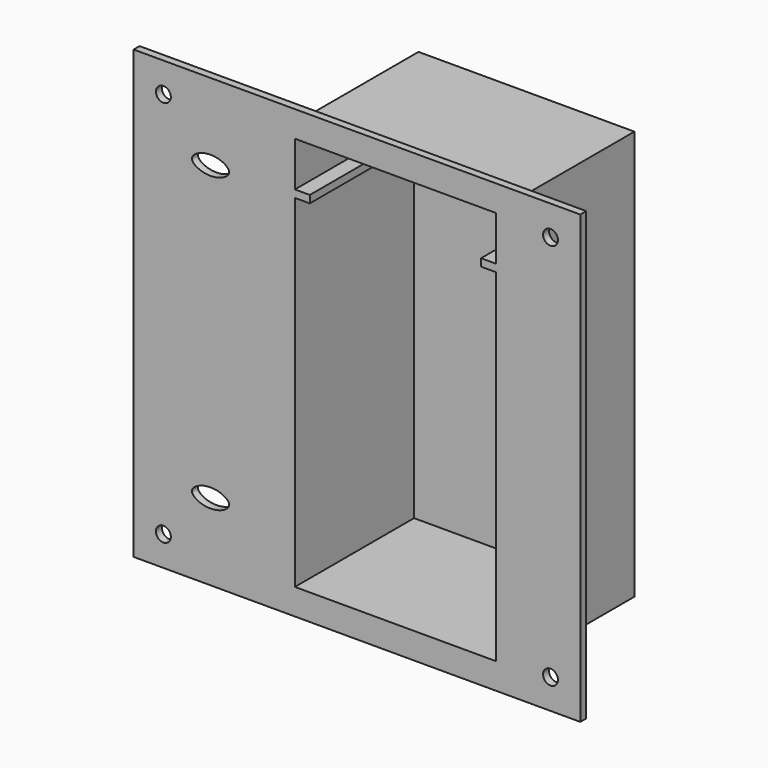
from build123d import *

# Parameters (mm, degrees)
F0_W     = 60
F0_H     = 60
F0_R     = 1
F0_W_2   = 29
F0_H_2   = 55
F1_DEPTH = 1
F2_DEPTH = 20
F3_W     = 29
F3_H     = 55
F4_DEPTH = 2
F5_R     = 1.25
F6_DEPTH = 1


with BuildPart() as f1:
    # F0 (on Front) → F1 (new body)
    with BuildSketch(Plane.XZ):
        with Locations((45, -47.5)):
            Rectangle(F0_W, F0_H)
        with Locations((19, -73.5)):
            Circle(F0_R, mode=Mode.SUBTRACT)
        with BuildLine():
            add(Edge.make_bspline(
                [(28.3333333333, -67.1666666667), (28.3386910441, -67.1122126941), (28.3379488497, -66.9506494032), (28.2562853666, -66.6493198021), (28.002751809, -66.341706647), (27.672972526, -66.0654054786), (27.2898969931, -65.8388871979), (26.8077967498, -65.6378105429), (26.2767972884, -65.4717289024), (25.7573018765, -65.4109314105), (25.4558981893, -65.4106282423), (25.3333333333, -65.4166666667)],
                knots=[0, 0, 0, 0, 0.1634113073, 0.4836883399, 0.9124679887, 1.3341141703, 1.7731849289, 2.2406235312, 2.899707559, 3.4345550853, 3.8026975859, 3.8026975859, 3.8026975859, 3.8026975859], degree=3))
            add(Edge.make_bspline(
                [(28.3333333333, -67.1666666667), (28.3386910441, -67.2211206392), (28.3379488497, -67.3826839302), (28.2562853666, -67.6840135313), (28.002751809, -67.9916266863), (27.672972526, -68.2679278548), (27.2898969931, -68.4944461355), (26.8077967498, -68.6955227904), (26.2767972884, -68.861604431), (25.7573018765, -68.9224019229), (25.4558981893, -68.922705091), (25.3333333333, -68.9166666667)],
                knots=[0, 0, 0, 0, 0.1634113073, 0.4836883399, 0.9124679887, 1.3341141703, 1.7731849289, 2.2406235312, 2.899707559, 3.4345550853, 3.8026975859, 3.8026975859, 3.8026975859, 3.8026975859], degree=3))
            add(Edge.make_bspline(
                [(22.3333333333, -67.1666666667), (22.3279756226, -67.2211206392), (22.328717817, -67.3826839302), (22.4103813, -67.6840135313), (22.6639148576, -67.9916266863), (22.9936941407, -68.2679278548), (23.3767696736, -68.4944461355), (23.8588699169, -68.6955227904), (24.3898693782, -68.861604431), (24.9093647902, -68.9224019229), (25.2107684774, -68.922705091), (25.3333333333, -68.9166666667)],
                knots=[0, 0, 0, 0, 0.1634113073, 0.4836883399, 0.9124679887, 1.3341141703, 1.7731849289, 2.2406235312, 2.899707559, 3.4345550853, 3.8026975859, 3.8026975859, 3.8026975859, 3.8026975859], degree=3))
            add(Edge.make_bspline(
                [(22.3333333333, -67.1666666667), (22.3279756226, -67.1122126941), (22.328717817, -66.9506494032), (22.4103813, -66.6493198021), (22.6639148576, -66.341706647), (22.9936941407, -66.0654054786), (23.3767696736, -65.8388871979), (23.8588699169, -65.6378105429), (24.3898693782, -65.4717289024), (24.9093647902, -65.4109314105), (25.2107684774, -65.4106282423), (25.3333333333, -65.4166666667)],
                knots=[0, 0, 0, 0, 0.1634113073, 0.4836883399, 0.9124679887, 1.3341141703, 1.7731849289, 2.2406235312, 2.899707559, 3.4345550853, 3.8026975859, 3.8026975859, 3.8026975859, 3.8026975859], degree=3))
        make_face(mode=Mode.SUBTRACT)
        with Locations((71, -73.5)):
            Circle(F0_R, mode=Mode.SUBTRACT)
        with Locations((50.1666666667, -47.5)):
            Rectangle(F0_W_2, F0_H_2, mode=Mode.SUBTRACT)
        with BuildLine():
            add(Edge.make_bspline(
                [(28.3333333333, -27.8333333333), (28.3386910441, -27.7788793608), (28.3379488497, -27.6173160698), (28.2562853666, -27.3159864687), (28.002751809, -27.0083733137), (27.672972526, -26.7320721453), (27.2898969931, -26.5055538646), (26.8077967498, -26.3044772096), (26.2767972884, -26.138395569), (25.7573018765, -26.0775980772), (25.4558981893, -26.077294909), (25.3333333333, -26.0833333333)],
                knots=[0, 0, 0, 0, 0.1634113073, 0.4836883399, 0.9124679887, 1.3341141703, 1.7731849289, 2.2406235312, 2.899707559, 3.4345550853, 3.8026975859, 3.8026975859, 3.8026975859, 3.8026975859], degree=3))
            add(Edge.make_bspline(
                [(28.3333333333, -27.8333333333), (28.3386910441, -27.8877873059), (28.3379488497, -28.0493505969), (28.2562853666, -28.350680198), (28.002751809, -28.658293353), (27.672972526, -28.9345945214), (27.2898969931, -29.1611128021), (26.8077967498, -29.3621894571), (26.2767972884, -29.5282710976), (25.7573018765, -29.5890685895), (25.4558981893, -29.5893717577), (25.3333333333, -29.5833333333)],
                knots=[0, 0, 0, 0, 0.1634113073, 0.4836883399, 0.9124679887, 1.3341141703, 1.7731849289, 2.2406235312, 2.899707559, 3.4345550853, 3.8026975859, 3.8026975859, 3.8026975859, 3.8026975859], degree=3))
            add(Edge.make_bspline(
                [(22.3333333333, -27.8333333333), (22.3279756226, -27.8877873059), (22.328717817, -28.0493505969), (22.4103813, -28.350680198), (22.6639148576, -28.658293353), (22.9936941407, -28.9345945214), (23.3767696736, -29.1611128021), (23.8588699169, -29.3621894571), (24.3898693782, -29.5282710976), (24.9093647902, -29.5890685895), (25.2107684774, -29.5893717577), (25.3333333333, -29.5833333333)],
                knots=[0, 0, 0, 0, 0.1634113073, 0.4836883399, 0.9124679887, 1.3341141703, 1.7731849289, 2.2406235312, 2.899707559, 3.4345550853, 3.8026975859, 3.8026975859, 3.8026975859, 3.8026975859], degree=3))
            add(Edge.make_bspline(
                [(22.3333333333, -27.8333333333), (22.3279756226, -27.7788793608), (22.328717817, -27.6173160698), (22.4103813, -27.3159864687), (22.6639148576, -27.0083733137), (22.9936941407, -26.7320721453), (23.3767696736, -26.5055538646), (23.8588699169, -26.3044772096), (24.3898693782, -26.138395569), (24.9093647902, -26.0775980772), (25.2107684774, -26.077294909), (25.3333333333, -26.0833333333)],
                knots=[0, 0, 0, 0, 0.1634113073, 0.4836883399, 0.9124679887, 1.3341141703, 1.7731849289, 2.2406235312, 2.899707559, 3.4345550853, 3.8026975859, 3.8026975859, 3.8026975859, 3.8026975859], degree=3))
        make_face(mode=Mode.SUBTRACT)
        with Locations((19, -21.5)):
            Circle(F0_R, mode=Mode.SUBTRACT)
        with Locations((71, -21.5)):
            Circle(F0_R, mode=Mode.SUBTRACT)
        with BuildLine():
            add(Edge.make_bspline(
                [(28.3333333333, -67.1666666667), (28.3386910441, -67.2211206392), (28.3379488497, -67.3826839302), (28.2562853666, -67.6840135313), (28.002751809, -67.9916266863), (27.672972526, -68.2679278548), (27.2898969931, -68.4944461355), (26.8077967498, -68.6955227904), (26.2767972884, -68.861604431), (25.7573018765, -68.9224019229), (25.4558981893, -68.922705091), (25.3333333333, -68.9166666667)],
                knots=[0, 0, 0, 0, 0.1634113073, 0.4836883399, 0.9124679887, 1.3341141703, 1.7731849289, 2.2406235312, 2.899707559, 3.4345550853, 3.8026975859, 3.8026975859, 3.8026975859, 3.8026975859], degree=3))
            add(Edge.make_bspline(
                [(28.3333333333, -67.1666666667), (28.3386910441, -67.1122126941), (28.3379488497, -66.9506494032), (28.2562853666, -66.6493198021), (28.002751809, -66.341706647), (27.672972526, -66.0654054786), (27.2898969931, -65.8388871979), (26.8077967498, -65.6378105429), (26.2767972884, -65.4717289024), (25.7573018765, -65.4109314105), (25.4558981893, -65.4106282423), (25.3333333333, -65.4166666667)],
                knots=[0, 0, 0, 0, 0.1634113073, 0.4836883399, 0.9124679887, 1.3341141703, 1.7731849289, 2.2406235312, 2.899707559, 3.4345550853, 3.8026975859, 3.8026975859, 3.8026975859, 3.8026975859], degree=3))
            add(Edge.make_bspline(
                [(22.3333333333, -67.1666666667), (22.3279756226, -67.1122126941), (22.328717817, -66.9506494032), (22.4103813, -66.6493198021), (22.6639148576, -66.341706647), (22.9936941407, -66.0654054786), (23.3767696736, -65.8388871979), (23.8588699169, -65.6378105429), (24.3898693782, -65.4717289024), (24.9093647902, -65.4109314105), (25.2107684774, -65.4106282423), (25.3333333333, -65.4166666667)],
                knots=[0, 0, 0, 0, 0.1634113073, 0.4836883399, 0.9124679887, 1.3341141703, 1.7731849289, 2.2406235312, 2.899707559, 3.4345550853, 3.8026975859, 3.8026975859, 3.8026975859, 3.8026975859], degree=3))
            add(Edge.make_bspline(
                [(22.3333333333, -67.1666666667), (22.3279756226, -67.2211206392), (22.328717817, -67.3826839302), (22.4103813, -67.6840135313), (22.6639148576, -67.9916266863), (22.9936941407, -68.2679278548), (23.3767696736, -68.4944461355), (23.8588699169, -68.6955227904), (24.3898693782, -68.861604431), (24.9093647902, -68.9224019229), (25.2107684774, -68.922705091), (25.3333333333, -68.9166666667)],
                knots=[0, 0, 0, 0, 0.1634113073, 0.4836883399, 0.9124679887, 1.3341141703, 1.7731849289, 2.2406235312, 2.899707559, 3.4345550853, 3.8026975859, 3.8026975859, 3.8026975859, 3.8026975859], degree=3))
        make_face()
        with BuildLine():
            add(Edge.make_bspline(
                [(27.8333333333, -67.1666666667), (27.8333333333, -66.9166666667), (27.3315200266, -66.294377896), (26.1333333333, -65.9166666667), (25.3333333333, -65.9166666667)],
                knots=[0, 0, 0, 0, 0.3917230185, 1, 1, 1, 1], degree=3))
            add(Edge.make_bspline(
                [(27.8333333333, -67.1666666667), (27.8333333333, -67.4166666667), (27.3315200266, -68.0389554373), (26.1333333333, -68.4166666667), (25.3333333333, -68.4166666667)],
                knots=[0, 0, 0, 0, 0.3917230185, 1, 1, 1, 1], degree=3))
            add(Edge.make_bspline(
                [(22.8333333333, -67.1666666667), (22.8333333333, -67.4166666667), (23.3351466401, -68.0389554373), (24.5333333333, -68.4166666667), (25.3333333333, -68.4166666667)],
                knots=[0, 0, 0, 0, 0.3917230185, 1, 1, 1, 1], degree=3))
            add(Edge.make_bspline(
                [(22.8333333333, -67.1666666667), (22.8333333333, -66.9166666667), (23.3351466401, -66.294377896), (24.5333333333, -65.9166666667), (25.3333333333, -65.9166666667)],
                knots=[0, 0, 0, 0, 0.3917230185, 1, 1, 1, 1], degree=3))
        make_face(mode=Mode.SUBTRACT)
        with BuildLine():
            add(Edge.make_bspline(
                [(28.3333333333, -27.8333333333), (28.3386910441, -27.8877873059), (28.3379488497, -28.0493505969), (28.2562853666, -28.350680198), (28.002751809, -28.658293353), (27.672972526, -28.9345945214), (27.2898969931, -29.1611128021), (26.8077967498, -29.3621894571), (26.2767972884, -29.5282710976), (25.7573018765, -29.5890685895), (25.4558981893, -29.5893717577), (25.3333333333, -29.5833333333)],
                knots=[0, 0, 0, 0, 0.1634113073, 0.4836883399, 0.9124679887, 1.3341141703, 1.7731849289, 2.2406235312, 2.899707559, 3.4345550853, 3.8026975859, 3.8026975859, 3.8026975859, 3.8026975859], degree=3))
            add(Edge.make_bspline(
                [(28.3333333333, -27.8333333333), (28.3386910441, -27.7788793608), (28.3379488497, -27.6173160698), (28.2562853666, -27.3159864687), (28.002751809, -27.0083733137), (27.672972526, -26.7320721453), (27.2898969931, -26.5055538646), (26.8077967498, -26.3044772096), (26.2767972884, -26.138395569), (25.7573018765, -26.0775980772), (25.4558981893, -26.077294909), (25.3333333333, -26.0833333333)],
                knots=[0, 0, 0, 0, 0.1634113073, 0.4836883399, 0.9124679887, 1.3341141703, 1.7731849289, 2.2406235312, 2.899707559, 3.4345550853, 3.8026975859, 3.8026975859, 3.8026975859, 3.8026975859], degree=3))
            add(Edge.make_bspline(
                [(22.3333333333, -27.8333333333), (22.3279756226, -27.7788793608), (22.328717817, -27.6173160698), (22.4103813, -27.3159864687), (22.6639148576, -27.0083733137), (22.9936941407, -26.7320721453), (23.3767696736, -26.5055538646), (23.8588699169, -26.3044772096), (24.3898693782, -26.138395569), (24.9093647902, -26.0775980772), (25.2107684774, -26.077294909), (25.3333333333, -26.0833333333)],
                knots=[0, 0, 0, 0, 0.1634113073, 0.4836883399, 0.9124679887, 1.3341141703, 1.7731849289, 2.2406235312, 2.899707559, 3.4345550853, 3.8026975859, 3.8026975859, 3.8026975859, 3.8026975859], degree=3))
            add(Edge.make_bspline(
                [(22.3333333333, -27.8333333333), (22.3279756226, -27.8877873059), (22.328717817, -28.0493505969), (22.4103813, -28.350680198), (22.6639148576, -28.658293353), (22.9936941407, -28.9345945214), (23.3767696736, -29.1611128021), (23.8588699169, -29.3621894571), (24.3898693782, -29.5282710976), (24.9093647902, -29.5890685895), (25.2107684774, -29.5893717577), (25.3333333333, -29.5833333333)],
                knots=[0, 0, 0, 0, 0.1634113073, 0.4836883399, 0.9124679887, 1.3341141703, 1.7731849289, 2.2406235312, 2.899707559, 3.4345550853, 3.8026975859, 3.8026975859, 3.8026975859, 3.8026975859], degree=3))
        make_face()
        with BuildLine():
            add(Edge.make_bspline(
                [(22.8333333333, -27.8333333333), (22.8333333333, -28.0833333333), (23.3351466401, -28.705622104), (24.5333333333, -29.0833333333), (25.3333333333, -29.0833333333)],
                knots=[0, 0, 0, 0, 0.3917230185, 1, 1, 1, 1], degree=3))
            add(Edge.make_bspline(
                [(22.8333333333, -27.8333333333), (22.8333333333, -27.5833333333), (23.3351466401, -26.9610445627), (24.5333333333, -26.5833333333), (25.3333333333, -26.5833333333)],
                knots=[0, 0, 0, 0, 0.3917230185, 1, 1, 1, 1], degree=3))
            add(Edge.make_bspline(
                [(27.8333333333, -27.8333333333), (27.8333333333, -27.5833333333), (27.3315200266, -26.9610445627), (26.1333333333, -26.5833333333), (25.3333333333, -26.5833333333)],
                knots=[0, 0, 0, 0, 0.3917230185, 1, 1, 1, 1], degree=3))
            add(Edge.make_bspline(
                [(27.8333333333, -27.8333333333), (27.8333333333, -28.0833333333), (27.3315200266, -28.705622104), (26.1333333333, -29.0833333333), (25.3333333333, -29.0833333333)],
                knots=[0, 0, 0, 0, 0.3917230185, 1, 1, 1, 1], degree=3))
        make_face(mode=Mode.SUBTRACT)
        with Locations((50.1666666667, -47.5)):
            Rectangle(F0_W_2, F0_H_2)
        Polygon((36.6666666667, -74), (36.6666666667, -28), (38.6666666667, -28), (38.6666666667, -27), (36.6666666667, -27), (36.6666666667, -21), (63.6666666667, -21), (63.6666666667, -27), (61.6666666667, -27), (61.6666666667, -28), (63.6666666667, -28), (63.6666666667, -74), align=None, mode=Mode.SUBTRACT)
    extrude(amount=-F1_DEPTH)

    # F0 (on Front) → F2 (join)
    with BuildSketch(Plane.XZ):
        with Locations((50.1666666667, -47.5)):
            Rectangle(F0_W_2, F0_H_2)
        Polygon((36.6666666667, -74), (36.6666666667, -28), (38.6666666667, -28), (38.6666666667, -27), (36.6666666667, -27), (36.6666666667, -21), (63.6666666667, -21), (63.6666666667, -27), (61.6666666667, -27), (61.6666666667, -28), (63.6666666667, -28), (63.6666666667, -74), align=None, mode=Mode.SUBTRACT)
    extrude(amount=-F2_DEPTH)

    # F3 (on face) → F4 (join)
    with BuildSketch(Plane(origin=(0, 20, 0), x_dir=(-1, 0, 0), z_dir=(0, 1, 0))):
        with Locations((-50.1666666667, -47.5)):
            Rectangle(F3_W, F3_H)
    extrude(amount=F4_DEPTH)

    # F5 (on face) → F6 (cut, through all)
    with BuildSketch(Plane.YZ.offset(36.6666666667)):
        with Locations((10, -24)):
            Circle(F5_R)
    extrude(amount=-F6_DEPTH, mode=Mode.SUBTRACT)


solid = f1.part
